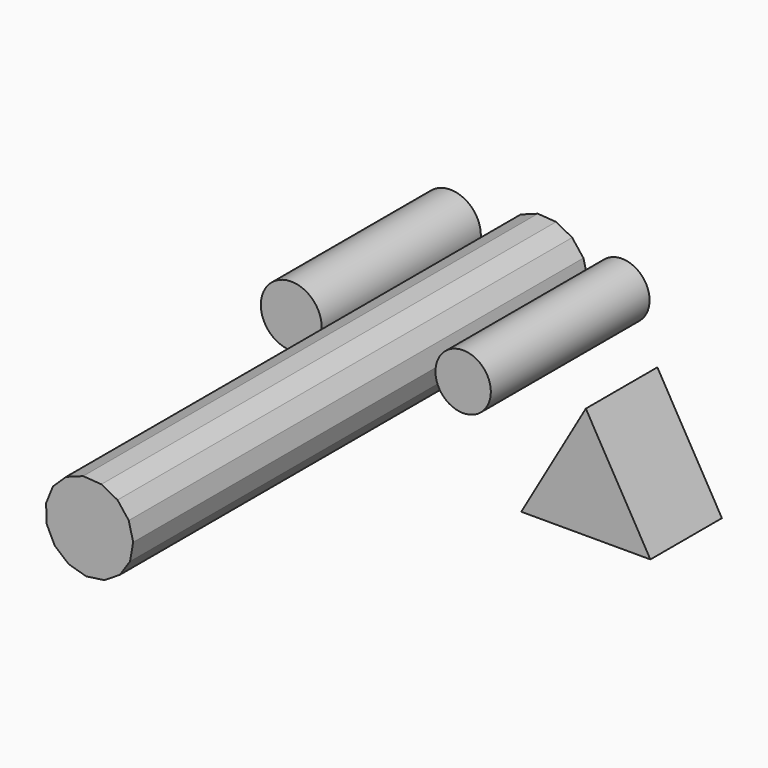
from build123d import *

# Parameters (mm, degrees)
F1_DEPTH = 30.6
F3_DEPTH = 194.5
F4_R     = 10.415838
F5_DEPTH = 68.1
F6_R     = 9.478308
F7_DEPTH = 67.9


with BuildPart() as f1:
    # F0 (on Front) → F1 (new body)
    with BuildSketch(Plane.XZ):
        Polygon((0, 25.239646), (-22.095323, -13.030576), (22.095323, -13.030576), align=None)
    extrude(amount=F1_DEPTH)


with BuildPart() as f3:
    # F2 (on Front) → F3 (new body)
    with BuildSketch(Plane.XZ):
        Polygon((-28.373837, 32.536801), (-24.881561, 37.714999), (-23.797372, 43.865956), (-25.308735, 49.926113), (-29.154323, 54.847616), (-34.669197, 57.779491), (-40.899786, 58.214791), (-46.768765, 56.078248), (-51.261334, 51.73929), (-53.600687, 45.948163), (-53.382328, 39.706204), (-50.644014, 34.092705), (-45.859224, 30.078292), (-39.855292, 28.357092), (-33.670352, 29.226717), align=None)
    extrude(amount=F3_DEPTH)


with BuildPart() as f5:
    # F4 (on Front) → F5 (new body)
    with BuildSketch(Plane.XZ):
        with Locations((-70.81835, 45.323744)):
            Circle(F4_R)
    extrude(amount=F5_DEPTH)


with BuildPart() as f7:
    # F6 (on Front) → F7 (new body)
    with BuildSketch(Plane.XZ):
        with Locations((-12.146698, 44.555921)):
            Circle(F6_R)
    extrude(amount=F7_DEPTH)


solid = Compound([f1.part, f3.part, f5.part, f7.part])
